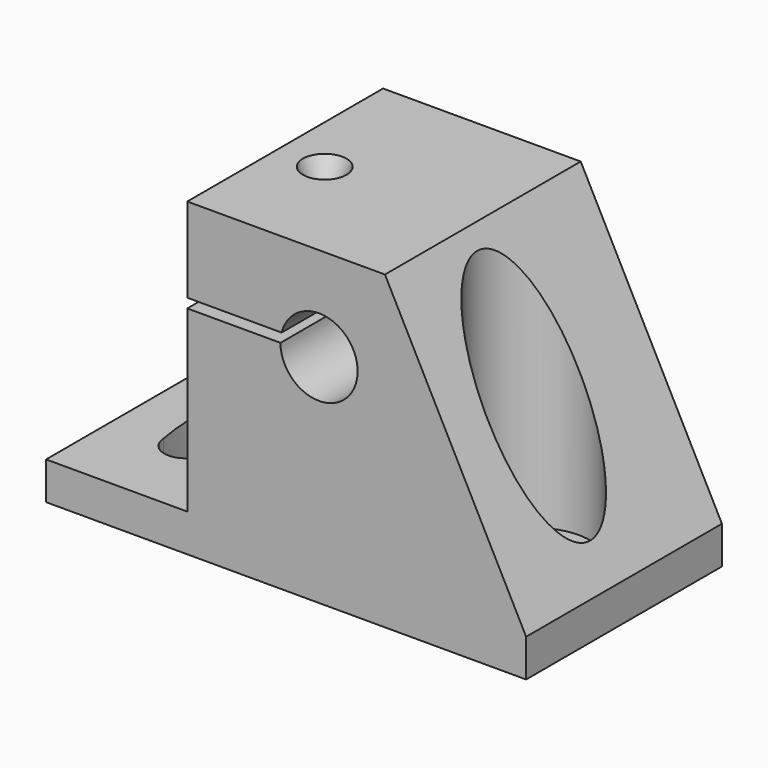
from build123d import *

# Parameters (mm, degrees)
CYLINDER047_R              = 6
CYLINDER047_DEPTH          = 30
CYLINDER049_R              = 2.1
CYLINDER049_DEPTH          = 10
CYLINDER046_R              = 1.6
CYLINDER046_DEPTH          = 15
CYLINDER050_R              = 4
CYLINDER050_DEPTH          = 4
BOX015_W                   = 13
BOX015_H                   = 8
BOX015_DEPTH               = 4
EXTRUDE012_DEPTH           = 3
EXTRUDE012_PLACEMENT_ANGLE = 180
EXTRUDE011_DEPTH           = 10
BOX018_W                   = 51
BOX018_H                   = 26
BOX018_DEPTH               = 4
EXTRUDE010_DEPTH           = 26
CYLINDER048_R              = 4.1
CYLINDER048_DEPTH          = 240
BOX016_W                   = 12
BOX016_H                   = 35
BOX016_DEPTH               = 1
BOX017_W                   = 21
BOX017_H                   = 26
BOX017_DEPTH               = 33
CUT042_PLACEMENT_ANGLE     = 180


with BuildPart() as cylinder047:
    # Cylinder047 → Cylinder047 (new body)
    with BuildSketch(Plane.XY.offset(10)):
        Circle(CYLINDER047_R)
    extrude(amount=CYLINDER047_DEPTH)


with BuildPart() as fusion019:
    # Cylinder049 → Cylinder049 (new body)
    with BuildSketch(Plane.XY):
        Circle(CYLINDER049_R)
    extrude(amount=CYLINDER049_DEPTH)

    # Fusion019: union Cylinder047
    add(cylinder047.part)


with BuildPart() as fusion019_1:
    # Fusion019 placement: moved
    add(fusion019.part.moved(Location((-14, 12, -29))))


with BuildPart() as cylinder046:
    # Cylinder046 → Cylinder046 (new body)
    with BuildSketch(Plane.XY):
        Circle(CYLINDER046_R)
    extrude(amount=CYLINDER046_DEPTH)


with BuildPart() as fusion021:
    # Cone003 → Cone003 (revolve)
    with BuildSketch(Plane(origin=(0, 0, 15), x_dir=(1, 0, 0), z_dir=(0, -1, 0))):
        Polygon((0, 0), (1.6, 0), (2.5, 2.5), (0, 2.5), align=None)
    revolve(axis=Axis((0, 0, 15), (0, 0, 1)))

    # Fusion021: union Cylinder046
    add(cylinder046.part)


with BuildPart() as fusion021_1:
    # Fusion021 placement: moved
    add(fusion021.part.moved(Location((9, 11, -7))))


with BuildPart() as cylinder050:
    # Cylinder050 → Cylinder050 (new body)
    with BuildSketch(Plane(origin=(9, 11, -8), x_dir=(1, 0, 0), z_dir=(0, 0, 1))):
        Circle(CYLINDER050_R)
    extrude(amount=CYLINDER050_DEPTH)


with BuildPart() as fusion018:
    # Box015 → Box015 (new body)
    with BuildSketch(Plane(origin=(9, 7, -8), x_dir=(1, 0, 0), z_dir=(0, 0, 1))):
        with Locations((6.5, 4)):
            Rectangle(BOX015_W, BOX015_H)
    extrude(amount=BOX015_DEPTH)

    # Fusion018: union Cylinder050
    add(cylinder050.part)


with BuildPart() as extrude012:
    # Sketch006 → Extrude012 (new body)
    with BuildSketch(Plane.XZ):
        Polygon((-22, -19), (-7, -19), (-7, -4), align=None)
    extrude(amount=-EXTRUDE012_DEPTH)


with BuildPart() as extrude012_1:
    # Extrude012 placement: moved
    add(extrude012.part.moved(Location((7, 0, 0))).rotate(Axis((7, 0, 0), (0, 0, 1)), EXTRUDE012_PLACEMENT_ANGLE))


with BuildPart() as extrude011:
    # Sketch007 → Extrude011 (new body)
    with BuildSketch(Plane.XY):
        with BuildLine():
            ThreePointArc((35.736492, 10), (36.2, 15), (35.736492, 20))
            ThreePointArc((35.736492, 20), (33.490746, 22.111711), (31.244999, 20))
            ThreePointArc((31.244999, 10), (31.8, 15), (31.244999, 20))
            ThreePointArc((31.244999, 10), (33.490746, 7.888289), (35.736492, 10))
        make_face()
    extrude(amount=-EXTRUDE011_DEPTH)


with BuildPart() as extrude011_1:
    # Extrude011 placement: moved
    add(extrude011.part.moved(Location((-12, -3, -17))))


with BuildPart() as cut044:
    # Box018 → Box018 (new body)
    with BuildSketch(Plane(origin=(-22, 0, -23), x_dir=(1, 0, 0), z_dir=(0, 0, 1))):
        with Locations((25.5, 13)):
            Rectangle(BOX018_W, BOX018_H)
    extrude(amount=BOX018_DEPTH)

    # Cut044: cut Extrude011
    add(extrude011_1.part, mode=Mode.SUBTRACT)


with BuildPart() as cut044_1:
    # Cut044 placement: moved
    add(cut044.part.moved(Location((0, -3, 0))))


with BuildPart() as extrude010:
    # Sketch008 → Extrude010 (new body)
    with BuildSketch(Plane.XZ):
        Polygon((-22, -19), (-7, -19), (-7, 10), align=None)
    extrude(amount=-EXTRUDE010_DEPTH)


with BuildPart() as extrude010_1:
    # Extrude010 placement: moved
    add(extrude010.part.moved(Location((0, -3, 0))))


with BuildPart() as cylinder048:
    # Cylinder048 → Cylinder048 (new body)
    with BuildSketch(Plane(origin=(0, -7, 0), x_dir=(1, 0, 0), z_dir=(0, 1, 0))):
        Circle(CYLINDER048_R)
    extrude(amount=CYLINDER048_DEPTH)


with BuildPart() as box016:
    # Box016 → Box016 (new body)
    with BuildSketch(Plane(origin=(3, -6, 0), x_dir=(1, 0, 0), z_dir=(0, 0, 1))):
        with Locations((6, 17.5)):
            Rectangle(BOX016_W, BOX016_H)
    extrude(amount=BOX016_DEPTH)


with BuildPart() as cut042:
    # Box017 → Box017 (new body)
    with BuildSketch(Plane(origin=(-7, -3, -23), x_dir=(1, 0, 0), z_dir=(0, 0, 1))):
        with Locations((10.5, 13)):
            Rectangle(BOX017_W, BOX017_H)
    extrude(amount=BOX017_DEPTH)

    # Cut045: cut Box016
    add(box016.part, mode=Mode.SUBTRACT)

    # Cut041: cut Cylinder048
    add(cylinder048.part, mode=Mode.SUBTRACT)

    # Fusion020: union Cut044, Extrude010
    add(cut044_1.part)
    add(extrude010_1.part)

    # Fusion017: union Extrude012
    add(extrude012_1.part)

    # Cut043: cut Fusion018
    add(fusion018.part, mode=Mode.SUBTRACT)

    # Cut046: cut Fusion021
    add(fusion021_1.part, mode=Mode.SUBTRACT)

    # Cut042: cut Fusion019
    add(fusion019_1.part, mode=Mode.SUBTRACT)


with BuildPart() as cut042_1:
    # Cut042 placement: moved
    add(cut042.part.moved(Location((0, 3, 23))).rotate(Axis((0, 3, 23), (0, 0, 1)), CUT042_PLACEMENT_ANGLE))


solid = cut042_1.part
